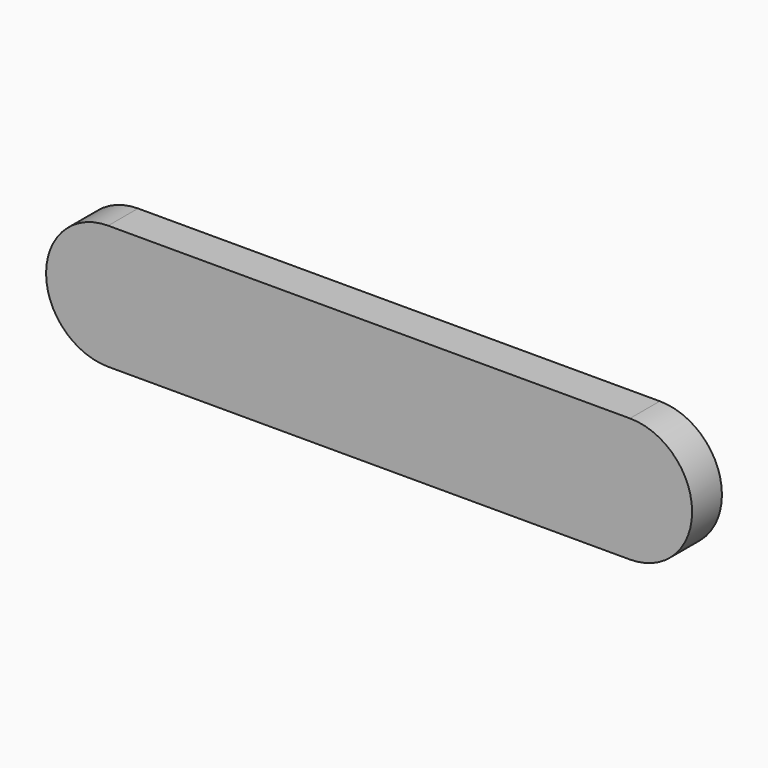
from build123d import *

# Parameters (mm, degrees)
F0_W     = 42
F0_H     = 10
F1_DEPTH = 3


with BuildPart() as f1:
    # F0 (on Front) → F1 (new body)
    with BuildSketch(Plane.XZ):
        with Locations((21, 5)):
            Rectangle(F0_W, F0_H)
        with BuildLine():
            ThreePointArc((0, 10), (-5, 5), (0, 0))
            Line((0, 0), (0, 10))
        make_face()
        with BuildLine():
            Line((42, 10), (42, 0))
            ThreePointArc((42, 0), (47, 5), (42, 10))
        make_face()
    extrude(amount=F1_DEPTH)


solid = f1.part
